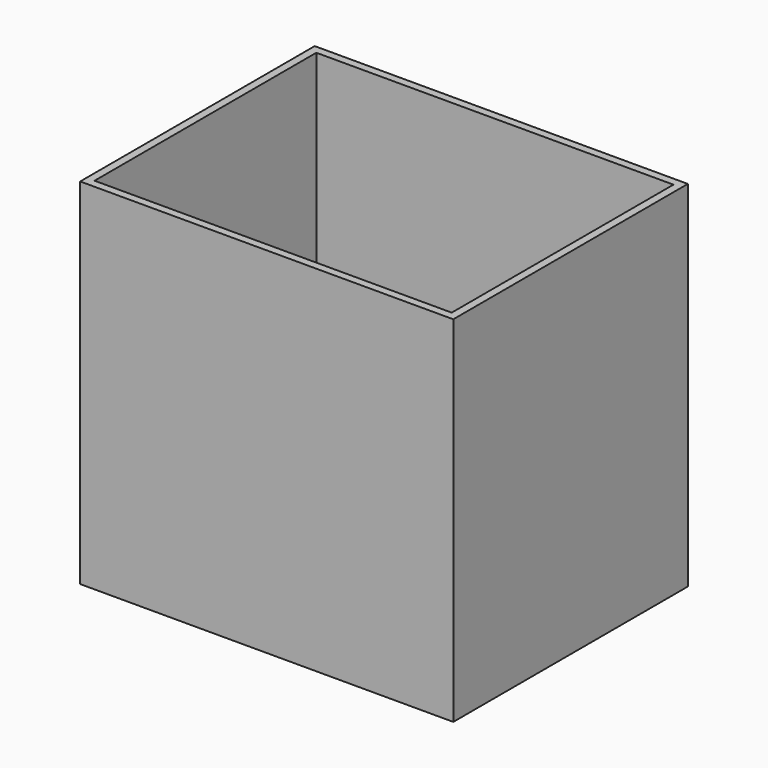
from build123d import *

# Parameters (mm, degrees)
F0_W     = 140
F0_H     = 110
F0_W_2   = 134
F0_H_2   = 104
F1_DEPTH = 130
F2_W     = 140
F2_H     = 110
F3_DEPTH = 3


with BuildPart() as f1:
    # F0 (on Top) → F1 (new body)
    with BuildSketch(Plane.XY):
        Rectangle(F0_W, F0_H)
        Rectangle(F0_W_2, F0_H_2, mode=Mode.SUBTRACT)
    extrude(amount=F1_DEPTH)

    # F2 (on Top) → F3 (join)
    with BuildSketch(Plane.XY):
        Rectangle(F2_W, F2_H)
    extrude(amount=-F3_DEPTH)


solid = f1.part
